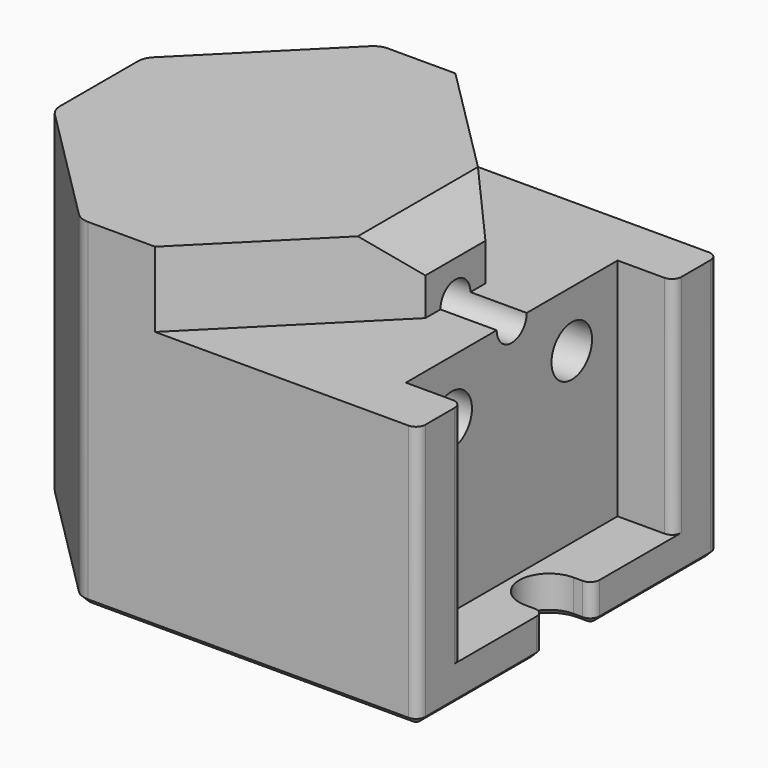
from build123d import *

# Parameters (mm, degrees)
SKETCH_W        = 25
SKETCH_H        = 20
PAD_DEPTH       = 18
SKETCH001_R     = 1
POCKET_DEPTH    = 25.001
SKETCH002_W     = 6
SKETCH002_H     = 8
POCKET001_DEPTH = 20.001
SKETCH003_R     = 1.35
POCKET002_DEPTH = 15
CHAMFER_SIZE    = 8
CHAMFER001_SIZE = 2
SKETCH004_W     = 14.1
SKETCH004_H     = 13
POCKET003_DEPTH = 3
FILLET_R        = 0.5
CHAMFER002_SIZE = 7
FILLET001_R     = 1
POCKET004_DEPTH = 5
FILLET002_R     = 0.5
CHAMFER003_SIZE = 0.3


with BuildPart() as part:
    # Sketch (on XY_Plane of Origin) → Pad (new body)
    with BuildSketch(Plane.XY):
        Rectangle(SKETCH_W, SKETCH_H)
    extrude(amount=PAD_DEPTH)

    # Sketch001 (on Face4 of Pad) → Pocket (cut, through all)
    with BuildSketch(Plane(origin=(-12.5, 0, 0), x_dir=(0, -1, 0), z_dir=(-1, 0, 0))):
        with Locations((0, 14)):
            Circle(SKETCH001_R)
    extrude(amount=-POCKET_DEPTH, mode=Mode.SUBTRACT)

    # Sketch002 (on Face1 of Pocket) → Pocket001 (cut, through all)
    with BuildSketch(Plane.XZ.offset(10)):
        with Locations((9.5, 18)):
            Rectangle(SKETCH002_W, SKETCH002_H)
    extrude(amount=-POCKET001_DEPTH, mode=Mode.SUBTRACT)

    # Sketch003 (on Face3 of Pocket001) → Pocket002 (cut)
    with BuildSketch(Plane.YZ.offset(12.5)):
        with Locations((-4, 11)):
            Circle(SKETCH003_R)
    pocket002 = extrude(amount=-POCKET002_DEPTH, mode=Mode.SUBTRACT)

    # Mirrored: Pocket002 across XZ
    add(pocket002.mirror(Plane.XZ), mode=Mode.SUBTRACT)

    # Chamfer
    chamfer_edges = [part.edges().sort_by_distance(p)[0] for p in [
        (6.5, -10, 16),
        (6.5, 10, 16),
    ]]
    chamfer(chamfer_edges, length=CHAMFER_SIZE)

    # Chamfer001
    chamfer001_edges = [part.edges().sort_by_distance(p)[0] for p in [
        (6.5, 0, 18),
    ]]
    chamfer(chamfer001_edges, length=CHAMFER001_SIZE)

    # Sketch004 (on Face11 of Chamfer001) → Pocket003 (cut)
    with BuildSketch(Plane.YZ.offset(12.5)):
        with Locations((0, 8.5)):
            Rectangle(SKETCH004_W, SKETCH004_H)
    extrude(amount=-POCKET003_DEPTH, mode=Mode.SUBTRACT)

    # Fillet
    fillet_edges = [part.edges().sort_by_distance(p)[0] for p in [
        (12.5, -10, 7),
        (12.5, -7.05, 8),
        (12.5, 7.05, 8),
        (12.5, 10, 7),
    ]]
    fillet(fillet_edges, radius=FILLET_R)

    # Chamfer002
    chamfer002_edges = [part.edges().sort_by_distance(p)[0] for p in [
        (-12.5, -10, 9),
        (-12.5, 10, 9),
    ]]
    chamfer(chamfer002_edges, length=CHAMFER002_SIZE)

    # Fillet001
    fillet001_edges = [part.edges().sort_by_distance(p)[0] for p in [
        (-12.5, -3, 9),
        (-5.5, -10, 9),
        (-12.5, 3, 9),
        (-5.5, 10, 9),
    ]]
    fillet(fillet001_edges, radius=FILLET001_R)

    # Sketch005 (on Face2 of Fillet001) → Pocket004 (cut)
    with BuildSketch(Plane(origin=(0, 0, 0), x_dir=(1, 0, 0), z_dir=(0, 0, -1))):
        with BuildLine():
            ThreePointArc((11.5, 1.6), (9.9, 0), (11.5, -1.6))
            Line((11.5, -1.6), (21.5, -1.6))
            ThreePointArc((21.5, -1.6), (23.1, 0), (21.5, 1.6))
            Line((11.5, 1.6), (21.5, 1.6))
        make_face()
    extrude(amount=-POCKET004_DEPTH, mode=Mode.SUBTRACT)

    # Fillet002
    fillet002_edges = [part.edges().sort_by_distance(p)[0] for p in [
        (12.5, 1.6, 1),
        (12.5, -1.6, 1),
    ]]
    fillet(fillet002_edges, radius=FILLET002_R)

    # Chamfer003
    chamfer003_edges = [part.edges().sort_by_distance(p)[0] for p in [
        (3.457107, -10, 0),
    ]]
    chamfer(chamfer003_edges, length=CHAMFER003_SIZE)


solid = part.part
